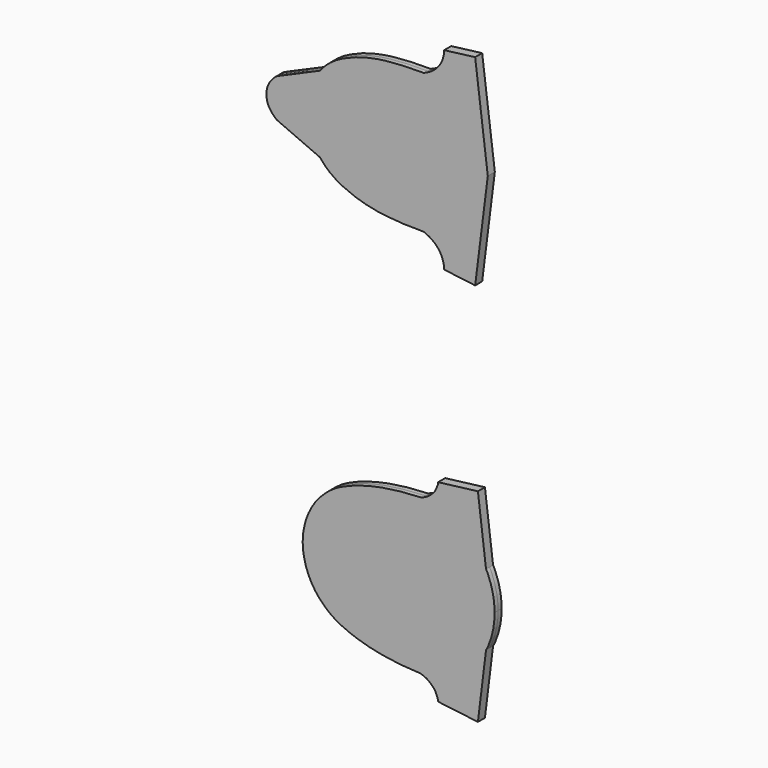
from build123d import *

# Parameters (mm, degrees)
F2_DEPTH = 2.5
F3_DEPTH = 2.5


with BuildPart() as f2:
    # F0 (on Front) → F2 (new body, symmetric)
    with BuildSketch(Plane.XZ):
        with BuildLine():
            add(Edge.make_bspline(
                [(276.5497267246, -863.7632131577), (276.54139154, -862.7410607928), (276.5242140475, -860.634567015), (277.1022166285, -857.2190359459), (278.1200119972, -852.3910459093), (279.9644463626, -847.920075237), (281.882477521, -844.1108320488), (284.2328157013, -840.7195439415), (286.5362493086, -837.9587161599), (289.5936271103, -835.000506288), (292.3400546836, -832.6961641976), (296.2659145844, -830.130412678), (299.6643453171, -828.5399335469), (305.0663850146, -826.268512946), (309.3360646257, -824.8757416896), (312.9564352004, -823.8421996168), (317.6327984787, -822.6772317039), (322.9576447247, -821.6792486204), (327.6506784182, -821.0164327637), (333.6132370505, -820.2629074866), (338.8503029875, -819.9387231038), (343.3844263767, -819.8004298323), (344.3448504869, -819.4552650149), (346.0335944536, -818.8448689071), (347.9511294829, -817.7280349749), (349.3725650959, -816.4916329208), (350.7417247639, -815.1633378239), (351.9811492056, -813.5631564799), (352.7690672299, -811.5551372984), (353.3514105804, -810.1866277081), (353.4392877312, -809.3047006151), (353.4816205502, -808.8798522949)],
                knots=[0, 0, 0, 0, 0.0324890162, 0.0669547054, 0.1081802891, 0.1491810039, 0.1875163578, 0.2248555747, 0.2602249162, 0.2980544802, 0.3336595835, 0.3731210496, 0.4096347547, 0.4543596768, 0.4938824362, 0.5294823691, 0.5701914519, 0.6133278299, 0.6539418391, 0.6990842242, 0.7431419032, 0.781359162, 0.7997387654, 0.8239445073, 0.8518738715, 0.8773527921, 0.902774255, 0.9292457632, 0.9564521361, 0.979021807, 1, 1, 1, 1], degree=3))
            add(Edge.make_bspline(
                [(276.5497267246, -863.7632131577), (276.54139154, -864.7853655225), (276.5242140475, -866.8918593003), (277.1022166285, -870.3073903695), (278.1200119972, -875.135380406), (279.9644463626, -879.6063510783), (281.882477521, -883.4155942665), (284.2328157013, -886.8068823739), (286.5362493086, -889.5677101554), (289.5936271103, -892.5259200273), (292.3400546836, -894.8302621177), (296.2659145844, -897.3960136373), (299.6643453171, -898.9864927685), (305.0663850146, -901.2579133693), (309.3360646257, -902.6506846257), (312.9564352004, -903.6842266986), (317.6327984787, -904.8491946114), (322.9576447247, -905.8471776949), (327.6506784182, -906.5099935516), (333.6132370505, -907.2635188288), (338.8503029875, -907.5877032115), (343.3844263767, -907.725996483), (344.3448504869, -908.0711613004), (346.0335944536, -908.6815574082), (347.9511294829, -909.7983913404), (349.3725650959, -911.0347933945), (350.7417247639, -912.3630884914), (351.9811492056, -913.9632698354), (352.7690672299, -915.9712890169), (353.3514105804, -917.3397986072), (353.4392877312, -918.2217257003), (353.4816205502, -918.6465740204)],
                knots=[0, 0, 0, 0, 0.0324890162, 0.0669547054, 0.1081802891, 0.1491810039, 0.1875163578, 0.2248555747, 0.2602249162, 0.2980544802, 0.3336595835, 0.3731210496, 0.4096347547, 0.4543596768, 0.4938824362, 0.5294823691, 0.5701914519, 0.6133278299, 0.6539418391, 0.6990842242, 0.7431419032, 0.781359162, 0.7997387654, 0.8239445073, 0.8518738715, 0.8773527921, 0.902774255, 0.9292457632, 0.9564521361, 0.979021807, 1, 1, 1, 1], degree=3))
            Line((353.4816205502, -918.6465740204), (376.0677278042, -921.4302301407))
            Line((376.0677278042, -921.4302301407), (380.6847454311, -883.9685427737))
            add(Edge.make_bspline(
                [(380.6847454311, -883.9685427737), (380.9214832769, -883.5956659994), (381.4419031281, -882.7759724907), (382.1644757035, -880.9088927645), (382.8901405387, -878.8474582057), (383.7158613081, -876.7090404288), (384.2166534232, -874.4777597275), (384.8417878024, -872.0960355715), (385.1994576942, -869.6921520058), (385.3882722832, -867.5518849454), (385.4408510014, -865.5143988966), (385.4343144479, -864.3319522707), (385.4311704636, -863.7632131577)],
                knots=[0, 0, 0, 0, 0.0814268321, 0.1790002764, 0.2822084214, 0.3867918981, 0.4914951728, 0.6003367786, 0.7083653302, 0.8101208926, 0.9086709939, 1, 1, 1, 1], degree=3))
            add(Edge.make_bspline(
                [(380.6847454311, -843.5578835416), (380.9214832769, -843.930760316), (381.4419031281, -844.7504538246), (382.1644757035, -846.6175335508), (382.8901405387, -848.6789681096), (383.7158613081, -850.8173858866), (384.2166534232, -853.0486665878), (384.8417878024, -855.4303907438), (385.1994576942, -857.8342743095), (385.3882722832, -859.9745413699), (385.4408510014, -862.0120274187), (385.4343144479, -863.1944740446), (385.4311704636, -863.7632131577)],
                knots=[0, 0, 0, 0, 0.0814268321, 0.1790002764, 0.2822084214, 0.3867918981, 0.4914951728, 0.6003367786, 0.7083653302, 0.8101208926, 0.9086709939, 1, 1, 1, 1], degree=3))
            Line((380.6847454311, -843.5578835416), (376.0677278042, -806.0961961746))
            Line((376.0677278042, -806.0961961746), (353.4816205502, -808.8798522949))
        make_face()
    extrude(amount=F2_DEPTH, both=True)


with BuildPart() as f3:
    # F1 (on Front) → F3 (new body, symmetric)
    with BuildSketch(Plane.XZ):
        with BuildLine():
            Line((374.5049238205, -703.6713957787), (381.6874027252, -646.5831398964))
            Line((381.6874027252, -646.5831398964), (374.5049238205, -589.4948840141))
            Line((374.5049238205, -589.4948840141), (356.8896192521, -591.7111288706))
            add(Edge.make_bspline(
                [(356.8896192521, -591.7111288706), (356.8910177633, -592.1523325596), (356.8943377862, -593.1997366717), (356.3073050321, -595.9137830966), (355.4467654844, -598.1904591127), (354.0585001566, -600.5388582073), (352.6873645683, -602.135716309), (350.9665607975, -603.7155875422), (349.0350842805, -605.1081007643), (347.5427588661, -605.8644672065), (345.3333915642, -606.9018270012), (344.725838446, -606.8790475218), (337.8162304679, -606.9172964432), (333.6910101123, -607.003750362), (328.1040964297, -607.5704799414), (323.6513343785, -607.7748307014), (318.7105955425, -608.5024950112), (314.7909213134, -609.2960332607), (311.0587566112, -610.1758493543), (307.2236533503, -611.3086532279), (302.9108408394, -613.0320653716), (299.2041941793, -614.6042334051), (295.1238309374, -616.8442837476), (292.1300482064, -619.0162438487), (289.6871533773, -621.0523561811), (287.0195132429, -623.9809835501), (286.4469174267, -624.9032581264), (285.5689437601, -625.2209054184), (277.7659381818, -628.5789161222), (271.0392467124, -631.6094203453), (263.4329905418, -634.8738035347), (261.5022317441, -635.7700385299), (259.7154155104, -637.453468299), (258.2491019333, -639.2919805919), (257.1643397272, -640.9396026311), (256.450399475, -642.7677088753), (255.9917021612, -644.6764396633), (256.0725133173, -645.9749144154), (256.02003932, -646.5831398964)],
                knots=[0, 0, 0, 0, 0.0187706041, 0.0445350384, 0.0693680867, 0.0948221811, 0.117471499, 0.1413415351, 0.1650814617, 0.1862018706, 0.2094514417, 0.2223223226, 0.2618726508, 0.2960087594, 0.3320285773, 0.3654677524, 0.4000773346, 0.4313733955, 0.4616216981, 0.492917745, 0.5263709666, 0.5579700605, 0.5915215179, 0.6212761869, 0.6498376776, 0.6806401009, 0.6957358398, 0.7093623435, 0.7532221493, 0.799198821, 0.8428096635, 0.8653796588, 0.889098214, 0.9132176898, 0.9350343068, 0.9567490413, 0.9785639435, 1, 1, 1, 1], degree=3))
            add(Edge.make_bspline(
                [(356.8896192521, -701.4551509222), (356.8910177633, -701.0139472331), (356.8943377862, -699.966543121), (356.3073050321, -697.2524966962), (355.4467654844, -694.9758206801), (354.0585001566, -692.6274215855), (352.6873645683, -691.0305634838), (350.9665607975, -689.4506922506), (349.0350842805, -688.0581790285), (347.5427588661, -687.3018125863), (345.3333915642, -686.2644527916), (344.725838446, -686.287232271), (337.8162304679, -686.2489833495), (333.6910101123, -686.1625294308), (328.1040964297, -685.5957998513), (323.6513343785, -685.3914490914), (318.7105955425, -684.6637847816), (314.7909213134, -683.8702465321), (311.0587566112, -682.9904304384), (307.2236533503, -681.8576265648), (302.9108408394, -680.1342144212), (299.2041941793, -678.5620463877), (295.1238309374, -676.3219960452), (292.1300482064, -674.1500359441), (289.6871533773, -672.1139236117), (287.0195132429, -669.1852962426), (286.4469174267, -668.2630216664), (285.5689437601, -667.9453743743), (277.7659381818, -664.5873636706), (271.0392467124, -661.5568594475), (263.4329905418, -658.2924762581), (261.5022317441, -657.3962412629), (259.7154155104, -655.7128114938), (258.2491019333, -653.8742992009), (257.1643397272, -652.2266771617), (256.450399475, -650.3985709175), (255.9917021612, -648.4898401295), (256.0725133173, -647.1913653774), (256.02003932, -646.5831398964)],
                knots=[0, 0, 0, 0, 0.0187706041, 0.0445350384, 0.0693680867, 0.0948221811, 0.117471499, 0.1413415351, 0.1650814617, 0.1862018706, 0.2094514417, 0.2223223226, 0.2618726508, 0.2960087594, 0.3320285773, 0.3654677524, 0.4000773346, 0.4313733955, 0.4616216981, 0.492917745, 0.5263709666, 0.5579700605, 0.5915215179, 0.6212761869, 0.6498376776, 0.6806401009, 0.6957358398, 0.7093623435, 0.7532221493, 0.799198821, 0.8428096635, 0.8653796588, 0.889098214, 0.9132176898, 0.9350343068, 0.9567490413, 0.9785639435, 1, 1, 1, 1], degree=3))
            Line((356.8896192521, -701.4551509222), (374.5049238205, -703.6713957787))
        make_face()
    extrude(amount=F3_DEPTH, both=True)


solid = Compound([f2.part, f3.part])
